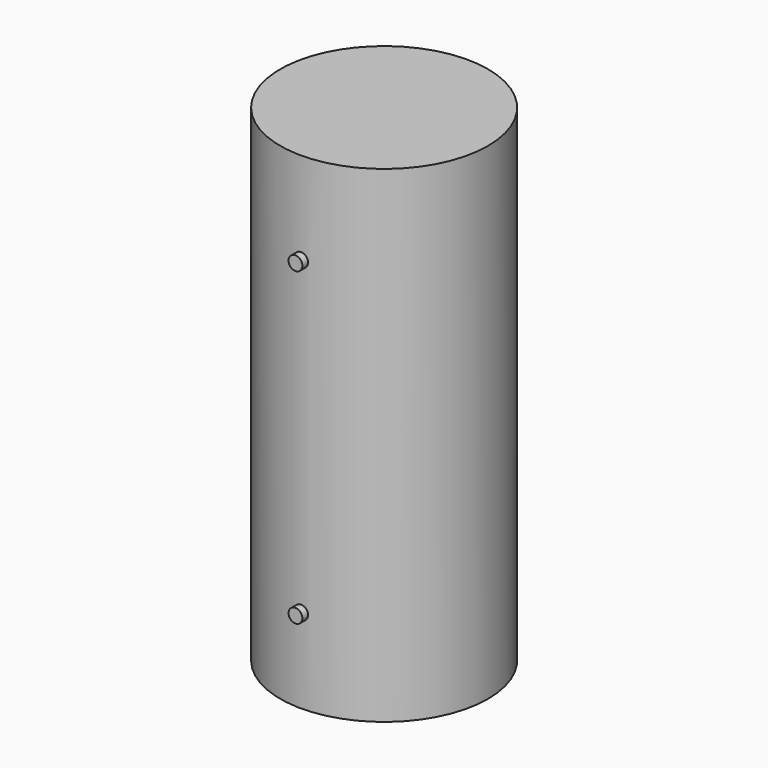
from build123d import *

# Parameters (mm, degrees)
F0_R     = 375
F1_DEPTH = 1757
F2_R     = 25
F3_DEPTH = 400


with BuildPart() as f1:
    # F0 (on Top) → F1 (new body)
    with BuildSketch(Plane.XY):
        Circle(F0_R)
    extrude(amount=F1_DEPTH)

    # F2 (on Front) → F3 (join)
    with BuildSketch(Plane.XZ):
        with Locations((0, 305)):
            Circle(F2_R)
        with Locations((0, 1425)):
            Circle(F2_R)
    extrude(amount=F3_DEPTH)


solid = f1.part
